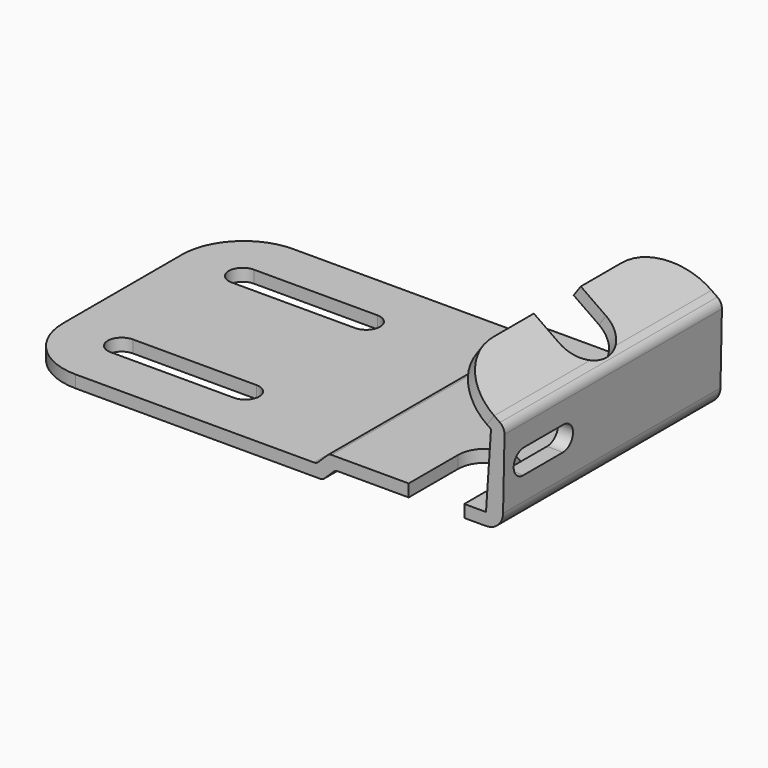
from build123d import *

# Parameters (mm, degrees)
F1_DEPTH  = 22
F3_DEPTH  = 2
F5_DEPTH  = 2
F7_DEPTH  = 3.5346013901
F9_DEPTH  = 2
F11_DEPTH = 2
F13_DEPTH = 2


with BuildPart() as f1:
    # F0 (on Front) → F1 (new body, symmetric)
    with BuildSketch(Plane.XZ):
        with BuildLine():
            Line((-40, 0), (-0.4058037769, 0))
            ThreePointArc((-0.4058037769, 0), (-0.0297816599, 0.0733893118), (0.2910484483, 0.2827852649))
            Line((0.2910484483, 0.2827852649), (1.7673929517, 1.7172147351))
            ThreePointArc((1.7673929517, 1.7172147351), (2.0882230599, 1.9266106882), (2.4642451769, 2))
            Line((2.4642451769, 2), (26.4432451769, 2))
            ThreePointArc((26.4432451769, 2), (28.3757802079, 2.7885630779), (29.2049477192, 4.7040276722))
            Line((29.2049477192, 4.7040276722), (29.4439892244, 16.0295052851))
            ThreePointArc((29.4439892244, 16.0295052851), (29.2561671236, 16.853335151), (28.7023996666, 17.4915470225))
            Line((28.7023996666, 17.4915470225), (27.7620131197, 18.1500127714))
            Line((27.7620131197, 18.1500127714), (26.614860247, 16.5117086828))
            Line((26.614860247, 16.5117086828), (27.2546179936, 16.0637454861))
            Line((27.2546179936, 16.0637454861), (26.4432451769, 4))
            Line((26.4432451769, 4), (1.4432451769, 4))
            ThreePointArc((1.4432451769, 4), (1.0672230599, 3.9266106882), (0.7463929517, 3.7172147351))
            Line((0.7463929517, 3.7172147351), (-0.7299515517, 2.2827852649))
            ThreePointArc((-0.7299515517, 2.2827852649), (-1.0507816599, 2.0733893118), (-1.4268037769, 2))
            Line((-1.4268037769, 2), (-40, 2))
            Line((-40, 2), (-40, 0))
        make_face()
    extrude(amount=F1_DEPTH, both=True)

    # F2 (on face) → F3 (join)
    with BuildSketch(Plane.XY.offset(2)):
        with BuildLine():
            Line((-50, 12), (-50, -12))
            ThreePointArc((-50, -12), (-47.0710678119, -19.0710678119), (-40, -22))
            Line((-40, -22), (-40, 22))
            ThreePointArc((-40, 22), (-47.0710678119, 19.0710678119), (-50, 12))
        make_face()
    extrude(amount=-F3_DEPTH)

    # F4 (on face) → F5 (cut, through all)
    with BuildSketch(Plane.XY.offset(2)):
        with BuildLine():
            ThreePointArc((-40.35, 14.489), (-42.6, 12.239), (-40.35, 9.989))
            Line((-40.35, 9.989), (-20.35, 9.989))
            ThreePointArc((-20.35, 9.989), (-18.1, 12.239), (-20.35, 14.489))
            Line((-20.35, 14.489), (-40.35, 14.489))
        make_face()
        with BuildLine():
            Line((-20.35, -9.989), (-40.35, -9.989))
            ThreePointArc((-40.35, -9.989), (-42.6, -12.239), (-40.35, -14.489))
            Line((-40.35, -14.489), (-20.35, -14.489))
            ThreePointArc((-20.35, -14.489), (-18.1, -12.239), (-20.35, -9.989))
        make_face()
    extrude(amount=-F5_DEPTH, mode=Mode.SUBTRACT)

    # F6 (on face) → F7 (cut, up to face)
    with BuildSketch(Plane(origin=(29.0927016527, 0, -0.6140459087), x_dir=(0, 1, 0), z_dir=(0.9997773316, 0, -0.0211018278))):
        with BuildLine():
            Line((-10, 13.1492580114), (-18, 13.1492580114))
            ThreePointArc((-18, 13.1492580114), (-20, 11.1492580114), (-18, 9.1492580114))
            Line((-18, 9.1492580114), (-10, 9.1492580114))
            ThreePointArc((-10, 9.1492580114), (-8, 11.1492580114), (-10, 13.1492580114))
        make_face()
    extrude(amount=-F7_DEPTH, mode=Mode.SUBTRACT)

    # F8 (on face) → F9 (join, through all)
    with BuildSketch(Plane(origin=(17.661139241, 0, 25.2227208038), x_dir=(0.8191520443, 0, -0.5735764364), z_dir=(0.5735764364, 0, 0.8191520443))):
        with BuildLine():
            Line((3.3308901554, 13), (3.3308901554, -13))
            ThreePointArc((3.3308901554, -13), (5.9669291247, -19.3639610307), (12.3308901554, -22))
            Line((12.3308901554, -22), (12.3308901554, 22))
            ThreePointArc((12.3308901554, 22), (5.9669291247, 19.3639610307), (3.3308901554, 13))
        make_face()
    extrude(amount=-F9_DEPTH)

    # F10 (on face) → F11 (cut, through all)
    with BuildSketch(Plane(origin=(17.661139241, 0, 25.2227208038), x_dir=(0.8191520443, 0, -0.5735764364), z_dir=(0.5735764364, 0, 0.8191520443))):
        with BuildLine():
            Line((3.3308901554, 4.75), (3.3308901554, -4.75))
            Line((3.3308901554, -4.75), (8.3308901554, -4.75))
            ThreePointArc((8.3308901554, -4.75), (13.0808901554, 0), (8.3308901554, 4.75))
            Line((8.3308901554, 4.75), (3.3308901554, 4.75))
        make_face()
    extrude(amount=-F11_DEPTH, mode=Mode.SUBTRACT)

    # F12 (on face) → F13 (cut, through all)
    with BuildSketch(Plane(origin=(0, 0, 2), x_dir=(1, 0, 0), z_dir=(0, 0, -1))):
        with BuildLine():
            Line((22.9232451769, 12), (22.9232451769, 22))
            Line((22.9232451769, 22), (13.9232451769, 22))
            Line((13.9232451769, 22), (13.9232451769, 12))
            ThreePointArc((13.9232451769, 12), (18.4232451769, 7.5), (22.9232451769, 12))
        make_face()
    extrude(amount=-F13_DEPTH, mode=Mode.SUBTRACT)


solid = f1.part
